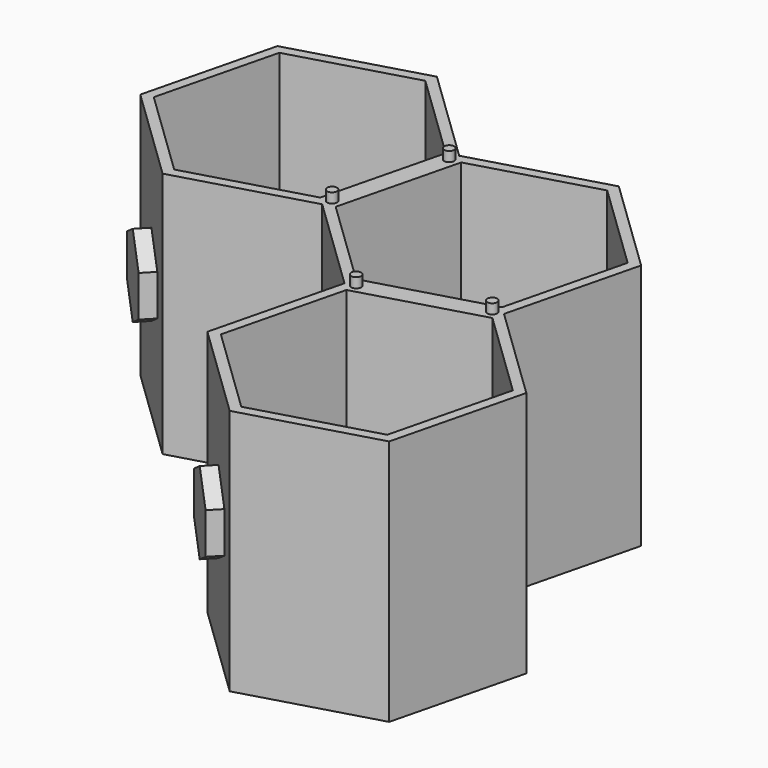
from build123d import *

# Parameters (mm, degrees)
F1_DEPTH  = 50
F3_R      = 1.15
F4_DEPTH  = 2.5
F2_R      = 1
F5_DEPTH  = 2
F8_DEPTH  = 4
F11_DEPTH = 3


with BuildPart() as f1:
    # F0 (on Top) → F1 (new body)
    with BuildSketch(Plane.XY):
        Polygon((10.3125888618, -10.489166909), (36.5490156619, -2.9234286087), (43.1160448871, 23.584636472), (23.4429017347, 42.5258831489), (-2.7972706431, 34.959064745), (-2.8022393409, 34.939008406), (-9.3642998683, 8.4509996642), (10.3088432841, -10.4902470126), align=None)
        Polygon((40.8970624139, 22.944753579), (34.8853695844, -1.3216748629), (10.8641796799, -8.2486103737), (-7.1453173951, 9.0908825573), (-1.1336245656, 33.3573109992), (22.8875653389, 40.28424651), align=None, mode=Mode.SUBTRACT)
        Polygon((-9.3692685661, 8.4309433252), (-9.3642998683, 8.4509996642), (-2.8022393409, 34.939008406), (-22.4753824933, 53.8802550828), (-48.7155548711, 46.3134366789), (-55.2825840964, 19.8053715981), (-35.6094409439, 0.8641249213), align=None)
        Polygon((-5.0212218141, 34.2991255129), (-11.0329146436, 10.032697071), (-35.0541045481, 3.1057615602), (-53.0636016231, 20.4452544912), (-47.0519087936, 44.7116829331), (-23.0307188891, 51.6386184439), align=None, mode=Mode.SUBTRACT)
        Polygon((36.5527612395, -2.9223485051), (36.5490156619, -2.9234286087), (10.3125888618, -10.489166909), (3.7455596365, -36.9972319897), (23.418702789, -55.9384786666), (49.6588751668, -48.3716602627), (56.225904392, -21.8635951819), align=None)
        Polygon((54.0069219188, -22.503478075), (47.9952290893, -46.7699065169), (23.9740391848, -53.6968420277), (5.9645421098, -36.3573490966), (11.9762349393, -12.0909206548), (35.9974248438, -5.163985144), align=None, mode=Mode.SUBTRACT)
    extrude(amount=F1_DEPTH)

    # F3 (on face) → F4 (cut)
    with BuildSketch(Plane(origin=(0, 0, 0), x_dir=(1, 0, 0), z_dir=(0, 0, -1))):
        with Locations((-8.8883331398, -10.3722576005)):
            Circle(F3_R)
        with Locations((-3.2831747672, -32.9976941306)):
            Circle(F3_R)
        with Locations((12.2305384765, 9.9360921718)):
            Circle(F3_R)
        with Locations((34.6273204695, 3.4775834496)):
            Circle(F3_R)
    extrude(amount=-F4_DEPTH, mode=Mode.SUBTRACT)

    # F2 (on face) → F5 (join)
    with BuildSketch(Plane.XY.offset(50)):
        with Locations((-3.2831747672, 32.9976941306)):
            Circle(F2_R)
        with Locations((-8.8883331398, 10.3722576005)):
            Circle(F2_R)
        with Locations((12.2305384765, -9.9360921718)):
            Circle(F2_R)
        with Locations((34.6273204695, -3.4775834496)):
            Circle(F2_R)
    extrude(amount=F5_DEPTH)

    # F6 (on face) + F7 (on face) → F8 (cut)
    with BuildSketch(Plane(origin=(32.5249435766, 33.7817189082, 0), x_dir=(-0.720379883, 0.6935797172, 0), z_dir=(0.6935797172, 0.720379883, 0))):
        Polygon((-1.0474053373, 33.6602540378), (-8.5474053373, 29.3301270189), (-8.5474053373, 20.6698729811), (-1.0474053373, 16.3397459622), (6.4525946627, 20.6698729811), (6.4525946627, 29.3301270189), align=None)
    with BuildSketch(Plane(origin=(16.1236842597, 16.7467091263, 0), x_dir=(-0.720379883, 0.6935797172, 0), z_dir=(0.6935797172, 0.720379883, 0))):
        Polygon((32.4115306178, 29.3301270189), (32.4115306178, 20.6698729811), (39.9115306178, 16.3397459622), (47.4115306178, 20.6698729811), (47.4115306178, 29.3301270189), (39.9115306178, 33.6602540378), align=None)
        Polygon((-49.5134560533, 29.3301270189), (-49.5134560533, 20.6698729811), (-42.0134560533, 16.3397459622), (-34.5134560533, 20.6698729811), (-34.5134560533, 29.3301270189), (-42.0134560533, 33.6602540378), align=None)
    extrude(amount=-F8_DEPTH, mode=Mode.SUBTRACT)


with BuildPart() as f11:
    # F10 (on face) → F11 (new body)
    with BuildSketch(Plane(origin=(-0.2822580265, -0.2931645765, 0), x_dir=(0.720379883, -0.6935797172, 0), z_dir=(-0.6935797172, -0.720379883, 0))):
        Polygon((8.2535455477, 20.8430780618), (8.2535455477, 29.1569219382), (1.0535455477, 33.3138438763), (-6.1464544523, 29.1569219382), (-6.1464544523, 20.8430780618), (1.0535455477, 16.6861561237), align=None)
    extrude(amount=F11_DEPTH)


with BuildPart() as f11b:
    # F9 (on face) → F11, piece 2 (new body)
    with BuildSketch(Plane(origin=(-16.6835173433, -17.3281743584, 0), x_dir=(0.720379883, -0.6935797172, 0), z_dir=(-0.6935797172, -0.720379883, 0))):
        Polygon((49.2134560533, 20.8430780618), (49.2134560533, 29.1569219382), (42.0134560533, 33.3138438763), (34.8134560533, 29.1569219382), (34.8134560533, 20.8430780618), (42.0134560533, 16.6861561237), align=None)
    extrude(amount=F11_DEPTH)


with BuildPart() as f11c:
    # F9 (on face) → F11, piece 3 (new body)
    with BuildSketch(Plane(origin=(-16.6835173433, -17.3281743584, 0), x_dir=(0.720379883, -0.6935797172, 0), z_dir=(-0.6935797172, -0.720379883, 0))):
        Polygon((-32.7063649578, 20.8430780618), (-32.7063649578, 29.1569219382), (-39.9063649578, 33.3138438763), (-47.1063649578, 29.1569219382), (-47.1063649578, 20.8430780618), (-39.9063649578, 16.6861561237), align=None)
    extrude(amount=F11_DEPTH)


solid = Compound([f1.part, f11.part, f11b.part, f11c.part])
